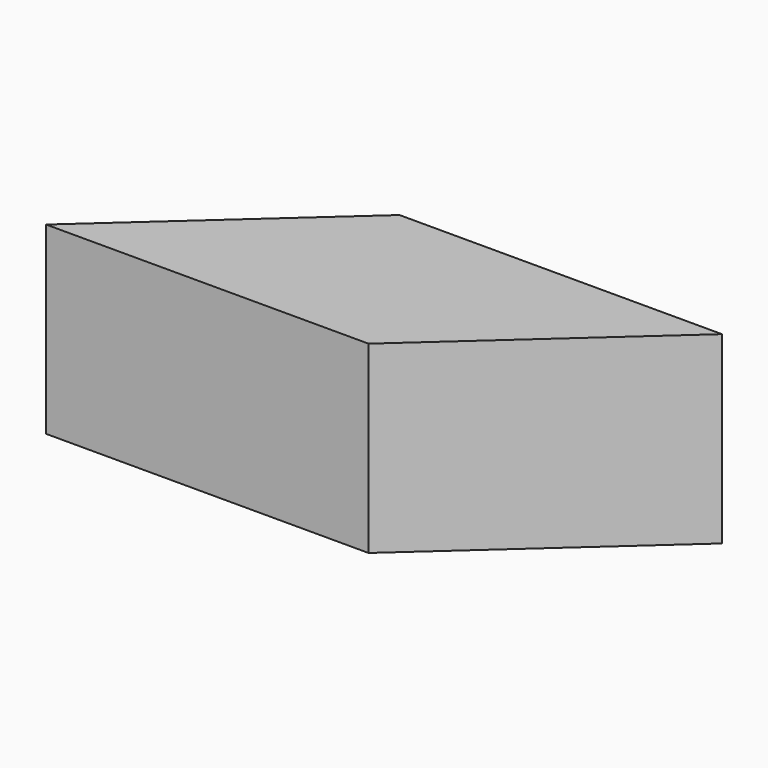
from build123d import *

# Parameters (mm, degrees)
PAD_DEPTH = 40


with BuildPart() as part:
    # Sketch → Pad (new body)
    with BuildSketch(Plane.XY):
        Polygon((52.58869, 48.147836), (122.58869, 48.147836), (78, 8), (8, 8), align=None)
    extrude(amount=PAD_DEPTH)


solid = part.part
